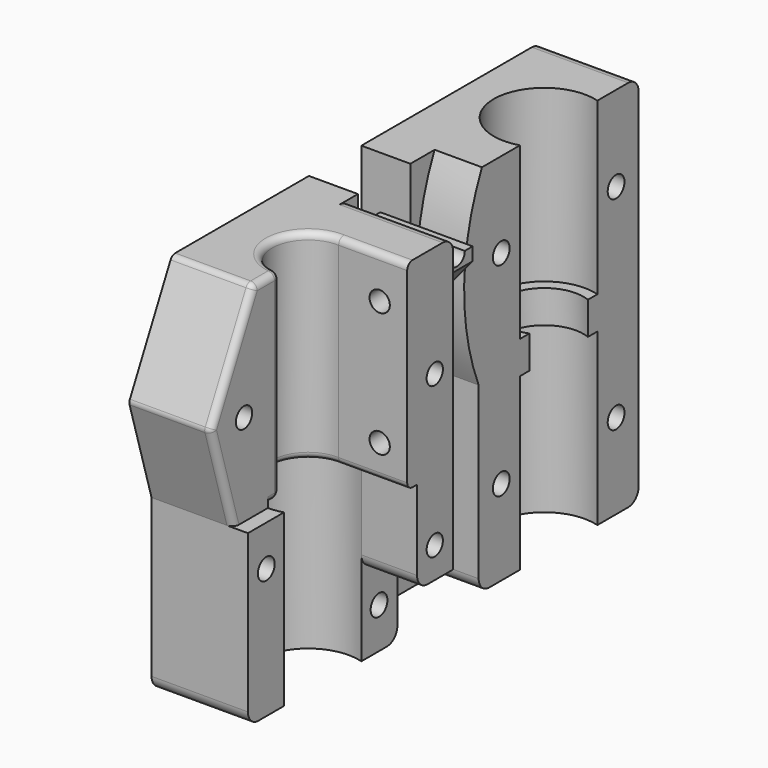
from build123d import *

# Parameters (mm, degrees)
PAD007_DEPTH    = 14.7
PAD008_DEPTH    = 8.5
POCKET017_DEPTH = 7.22
SKETCH022_R     = 7.7
POCKET018_DEPTH = 26.5
SKETCH023_R     = 7.7
POCKET019_DEPTH = 26
SKETCH024_R     = 6
SKETCH024_R_2   = 5.5
POCKET020_DEPTH = 57.001
SKETCH025_R     = 7.7
POCKET021_DEPTH = 26
SKETCH020_W     = 25.7447
SKETCH020_H     = 35
POCKET022_DEPTH = 2.2
FILLET_R        = 1
FILLET001_R     = 1
FILLET002_R     = 2
SKETCH026_R     = 1.55
SKETCH026_R_2   = 1.6
POCKET023_DEPTH = 14.701
SKETCH027_R     = 1.55
POCKET024_DEPTH = 23.201
SKETCH028_R     = 1.55
POCKET025_DEPTH = 10
SKETCH029_W     = 10
SKETCH029_H     = 57
PAD009_DEPTH    = 9.5
POCKET026_DEPTH = 16.981
SKETCH031_W     = 10
SKETCH031_H     = 2.9
POCKET027_DEPTH = 1.5
POCKET028_DEPTH = 10
SKETCH033_R     = 1.7
POCKET029_DEPTH = 16
SKETCH_W        = 6
SKETCH_H        = 3
POCKET_DEPTH    = 23.201


with BuildPart() as part:
    # Sketch018 → Pad007 (new body)
    with BuildSketch(Plane.YZ):
        Polygon((0, 0), (0, 26), (-4.306836, 40.539634), (3.9, 57), (74.5, 57), (74.5, 0), align=None)
    extrude(amount=PAD007_DEPTH)

    # Sketch019 → Pad008 (new body)
    with BuildSketch(Plane.YZ.offset(14.7)):
        Polygon((19.7447, 57), (28.4947, 57), (28.4947, 12.3), (21.6234, 12.3), (21.6234, 26.5), (19.7447, 26.5), align=None)
    extrude(amount=PAD008_DEPTH)

    # Sketch021 → Pocket017 (cut)
    with BuildSketch(Plane.YZ.offset(14.7)):
        with BuildLine():
            ThreePointArc((44.6197, 57), (41.229345, 42.566333), (43.9947, 28))
            Line((43.9947, -6), (43.9947, 28))
            Line((43.9947, -6), (28.4947, -6))
            Line((28.4947, -6), (28.4947, 65))
            Line((28.4947, 65), (44.6197, 65))
            Line((44.6197, 65), (44.6197, 57))
        make_face()
    extrude(amount=-POCKET017_DEPTH, mode=Mode.SUBTRACT)

    # Sketch022 → Pocket018 (cut)
    with BuildSketch(Plane.YX):
        with Locations((14.25, 12.5)):
            Circle(SKETCH022_R)
    extrude(amount=-POCKET018_DEPTH, mode=Mode.SUBTRACT)

    # Sketch023 → Pocket019 (cut)
    with BuildSketch(Plane.YX):
        with Locations((59.25, 12.5)):
            Circle(SKETCH023_R)
    extrude(amount=-POCKET019_DEPTH, mode=Mode.SUBTRACT)

    # Sketch024 → Pocket020 (cut, through all)
    with BuildSketch(Plane(origin=(0, 0, 57), x_dir=(0, -1, 0), z_dir=(0, 0, 1))):
        with Locations((-59.25, 12.5)):
            Circle(SKETCH024_R)
        with Locations((-14.25, 12.5)):
            Circle(SKETCH024_R_2)
    extrude(amount=-POCKET020_DEPTH, mode=Mode.SUBTRACT)

    # Sketch025 → Pocket021 (cut)
    with BuildSketch(Plane(origin=(0, 0, 57), x_dir=(0, -1, 0), z_dir=(0, 0, 1))):
        with Locations((-59.25, 12.5)):
            Circle(SKETCH025_R)
    extrude(amount=-POCKET021_DEPTH, mode=Mode.SUBTRACT)

    # Sketch020 → Pocket022 (cut)
    with BuildSketch(Plane.YZ.offset(14.7)):
        with Locations((6.87235, 43.5)):
            Rectangle(SKETCH020_W, SKETCH020_H)
    extrude(amount=-POCKET022_DEPTH, mode=Mode.SUBTRACT)

    # Fillet
    fillet_edges = [part.edges().sort_by_distance(p)[0] for p in [
        (7.001325, 14.370727, 57),
        (7.001325, 14.370727, 26.5),
    ]]
    fillet(fillet_edges, radius=FILLET_R)

    # Fillet001
    fillet001_edges = [part.edges().sort_by_distance(p)[0] for p in [
        (6.25, 3.9, 57),
        (12.5, 5.825, 57),
        (12.5, -0.203418, 48.769817),
        (6.25, -4.306836, 40.539634),
        (12.5, -2.153418, 33.269817),
    ]]
    fillet(fillet001_edges, radius=FILLET001_R)

    # Fillet002
    fillet002_edges = [part.edges().sort_by_distance(p)[0] for p in [
        (7.35, 0, 0),
        (18.959389, 21.6234, 12.3),
        (11.09, 43.9947, 0),
        (11.09, 28.4947, 0),
        (7.35, 74.5, 0),
        (7.35, 74.5, 57),
        (11.09, 28.4947, 57),
        (18.95, 28.4947, 57),
    ]]
    fillet(fillet002_edges, radius=FILLET002_R)

    # Sketch026 → Pocket023 (cut, through all)
    with BuildSketch(Plane.YZ.offset(14.7)):
        with Locations((2, 40)):
            Circle(SKETCH026_R)
        with Locations((3.5, 19.8)):
            Circle(SKETCH026_R_2)
        with Locations((25, 6.2)):
            Circle(SKETCH026_R_2)
        with Locations((48.3, 44)):
            Circle(SKETCH026_R_2)
        with Locations((48.3, 13)):
            Circle(SKETCH026_R_2)
        with Locations((70.2, 44)):
            Circle(SKETCH026_R_2)
        with Locations((70.2, 13)):
            Circle(SKETCH026_R_2)
    extrude(amount=-POCKET023_DEPTH, mode=Mode.SUBTRACT)

    # Sketch027 → Pocket024 (cut, through all)
    with BuildSketch(Plane.YZ.offset(23.2)):
        with Locations((25, 40)):
            Circle(SKETCH027_R)
        with Locations((25, 17)):
            Circle(SKETCH027_R)
    extrude(amount=-POCKET024_DEPTH, mode=Mode.SUBTRACT)

    # Sketch028 → Pocket025 (cut)
    with BuildSketch(Plane(origin=(0, 19.7447, 0), x_dir=(0, 0, -1), z_dir=(0, -1, 0))):
        with Locations((-50.5, 19)):
            Circle(SKETCH028_R)
        with Locations((-31.5, 19)):
            Circle(SKETCH028_R)
    extrude(amount=-POCKET025_DEPTH, mode=Mode.SUBTRACT)

    # Sketch029 → Pad009 (new body)
    with BuildSketch(Plane.YZ.offset(7.48)):
        with Locations((35, 28.5)):
            Rectangle(SKETCH029_W, SKETCH029_H)
    extrude(amount=PAD009_DEPTH)

    # Sketch030 → Pocket026 (cut, through all)
    with BuildSketch(Plane.YZ.offset(16.98)):
        with BuildLine():
            Line((30, 49), (30, 57))
            Line((30, 57), (40, 57))
            Line((40, 57), (40, 49))
            Line((38.5, 49), (40, 49))
            ThreePointArc((35.5, 49), (37, 47.5), (38.5, 49))
            Line((34.5, 49), (35.5, 49))
            ThreePointArc((31.5, 49), (33, 47.5), (34.5, 49))
            Line((30, 49), (31.5, 49))
        make_face()
    extrude(amount=-POCKET026_DEPTH, mode=Mode.SUBTRACT)

    # Sketch031 → Pocket027 (cut)
    with BuildSketch(Plane(origin=(0, 0, 49), x_dir=(0, -1, 0), z_dir=(0, 0, 1))):
        with Locations((-35, 1.45)):
            Rectangle(SKETCH031_W, SKETCH031_H)
    extrude(amount=-POCKET027_DEPTH, mode=Mode.SUBTRACT)

    # Sketch032 → Pocket028 (cut)
    with BuildSketch(Plane.ZX.offset(40)):
        Polygon((0, 7.48), (0, 16.98), (47, 16.98), (35.678341, 7.48), align=None)
    extrude(amount=-POCKET028_DEPTH, mode=Mode.SUBTRACT)

    # Sketch033 → Pocket029 (cut)
    with BuildSketch(Plane(origin=(0, 0, 49), x_dir=(0, -1, 0), z_dir=(0, 0, 1))):
        with Locations((-35, 5.41526)):
            Circle(SKETCH033_R)
    extrude(amount=-POCKET029_DEPTH, mode=Mode.SUBTRACT)

    # Sketch → Pocket (cut, through all)
    with BuildSketch(Plane(origin=(0, 0, 0), x_dir=(0, 1, 0), z_dir=(-1, 0, 0))):
        with Locations((35, -40.5)):
            Rectangle(SKETCH_W, SKETCH_H)
    extrude(amount=-POCKET_DEPTH, mode=Mode.SUBTRACT)


solid = part.part
